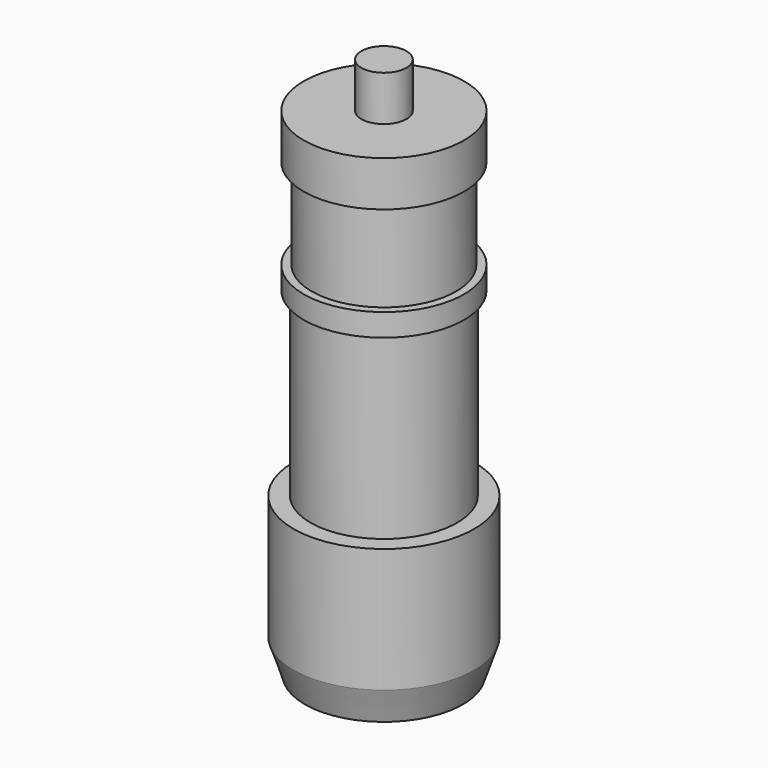
from build123d import *

# Parameters (mm, degrees)
CYLINDER020_R             = 3.2
CYLINDER020_DEPTH         = 22
CYLINDER021_R             = 3.55
CYLINDER021_DEPTH         = 2
CYLINDER022_R             = 3.55
CYLINDER022_DEPTH         = 1
CYLINDER023_R             = 3.25
CYLINDER023_DEPTH         = 8
CYLINDER024_R             = 4
CYLINDER024_DEPTH         = 5.5
CYLINDER025_R             = 1
CYLINDER025_DEPTH         = 2
FUSION044_PLACEMENT_ANGLE = 180


with BuildPart() as cylinder020:
    # Cylinder020 → Cylinder020 (new body)
    with BuildSketch(Plane.XY.offset(5)):
        Circle(CYLINDER020_R)
    extrude(amount=CYLINDER020_DEPTH)


with BuildPart() as cylinder021:
    # Cylinder021 → Cylinder021 (new body)
    with BuildSketch(Plane.XY.offset(5)):
        Circle(CYLINDER021_R)
    extrude(amount=CYLINDER021_DEPTH)


with BuildPart() as cylinder022:
    # Cylinder022 → Cylinder022 (new body)
    with BuildSketch(Plane.XY.offset(11)):
        Circle(CYLINDER022_R)
    extrude(amount=CYLINDER022_DEPTH)


with BuildPart() as cylinder023:
    # Cylinder023 → Cylinder023 (new body)
    with BuildSketch(Plane.XY.offset(12)):
        Circle(CYLINDER023_R)
    extrude(amount=CYLINDER023_DEPTH)


with BuildPart() as cylinder024:
    # Cylinder024 → Cylinder024 (new body)
    with BuildSketch(Plane.XY.offset(20)):
        Circle(CYLINDER024_R)
    extrude(amount=CYLINDER024_DEPTH)


with BuildPart() as fusion002:
    # Cone → Cone (revolve)
    with BuildSketch(Plane(origin=(0, 0, 25.5), x_dir=(1, 0, 0), z_dir=(0, -1, 0))):
        Polygon((0, 0), (4, 0), (3.5, 1.5), (0, 1.5), align=None)
    revolve(axis=Axis((0, 0, 25.5), (0, 0, 1)))

    # Fusion002: union Cylinder020, Cylinder021, Cylinder022, Cylinder023, Cylinder024
    add(cylinder020.part)
    add(cylinder021.part)
    add(cylinder022.part)
    add(cylinder023.part)
    add(cylinder024.part)


with BuildPart() as mic:
    # Cylinder025 → Cylinder025 (new body)
    with BuildSketch(Plane.XY.offset(3)):
        Circle(CYLINDER025_R)
    extrude(amount=CYLINDER025_DEPTH)

    # Fusion044: union Fusion002
    add(fusion002.part)


with BuildPart() as mic_1:
    # Fusion044 placement: moved
    add(mic.part.moved(Location((0, -288.5, -302.5))).rotate(Axis((0, -288.5, -302.5), (0, 1, 0)), FUSION044_PLACEMENT_ANGLE))


solid = mic_1.part
